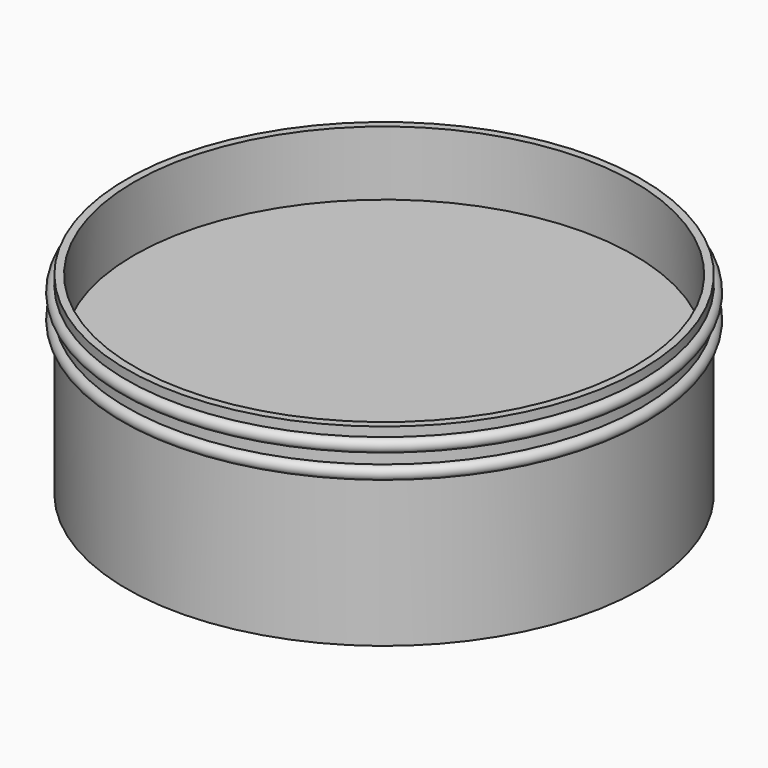
from build123d import *

# Parameters (mm, degrees)
F0_R     = 50.8
F1_DEPTH = 38.1
F2_R     = 49.306638
F3_DEPTH = 12.7


with BuildPart() as f1:
    # F0 (on Top) → F1 (new body)
    with BuildSketch(Plane.XY):
        Circle(F0_R)
    extrude(amount=F1_DEPTH)

    # F2 (on face) → F3 (cut)
    with BuildSketch(Plane.XY.offset(38.1)):
        Circle(F2_R)
    extrude(amount=-F3_DEPTH, mode=Mode.SUBTRACT)


with BuildPart() as f5:
    # F4 (on Front) → F5 (revolve)
    with BuildSketch(Plane.XZ):
        with BuildLine():
            Line((50.816165, 36.275578), (50.816165, 33.735747))
            ThreePointArc((50.816165, 33.735747), (52.071515, 35.005663), (50.816165, 36.275578))
        make_face()
    revolve(axis=Axis((0, 0, 38.1), (0, 0, 1)))


with BuildPart() as f6:
    # F4 (on Front) → F6 (revolve)
    with BuildSketch(Plane.XZ):
        with BuildLine():
            ThreePointArc((50.816165, 28.988825), (52.071569, 30.258741), (50.816165, 31.528657))
            Line((50.816165, 31.528657), (50.816165, 28.988825))
        make_face()
    revolve(axis=Axis((0, 0, 0), (0, 0, -1)))


solid = Compound([f1.part, f5.part, f6.part])
